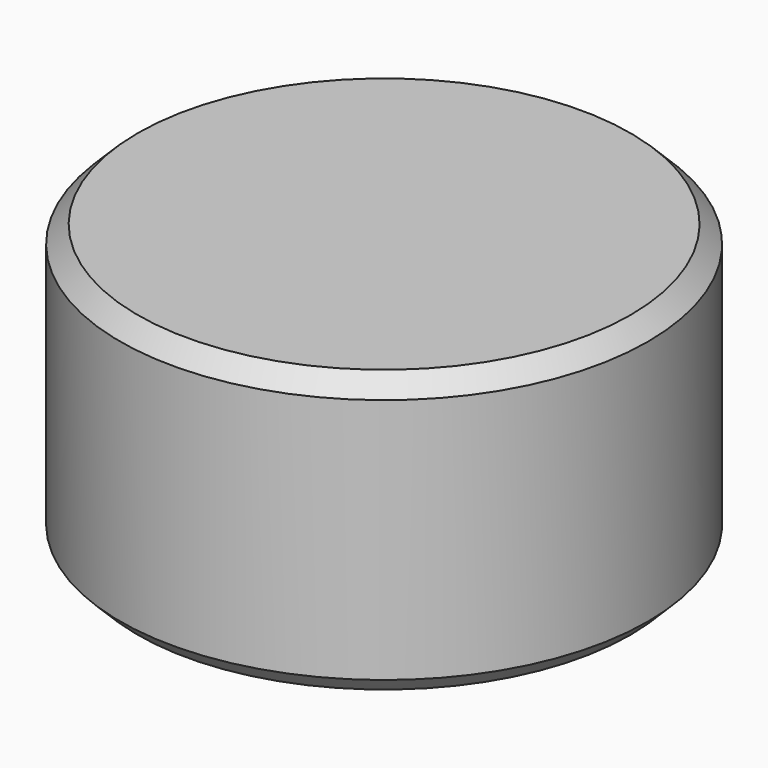
from build123d import *

# Parameters (mm, degrees)
CYLINDER003_R     = 30
CYLINDER003_DEPTH = 32
CHAMFER_SIZE      = 2
CHAMFER001_SIZE   = 2


with BuildPart() as part:
    # Cylinder003 → Cylinder003 (join)
    with BuildSketch(Plane.XY.offset(-16)):
        Circle(CYLINDER003_R)
    extrude(amount=CYLINDER003_DEPTH)

    # Chamfer
    chamfer_edges = [part.edges().sort_by_distance(p)[0] for p in [
        (-30, 0, 16),
    ]]
    chamfer(chamfer_edges, length=CHAMFER_SIZE)

    # Chamfer001
    chamfer001_edges = [part.edges().sort_by_distance(p)[0] for p in [
        (-30, 0, -16),
    ]]
    chamfer(chamfer001_edges, length=CHAMFER001_SIZE)


solid = part.part
